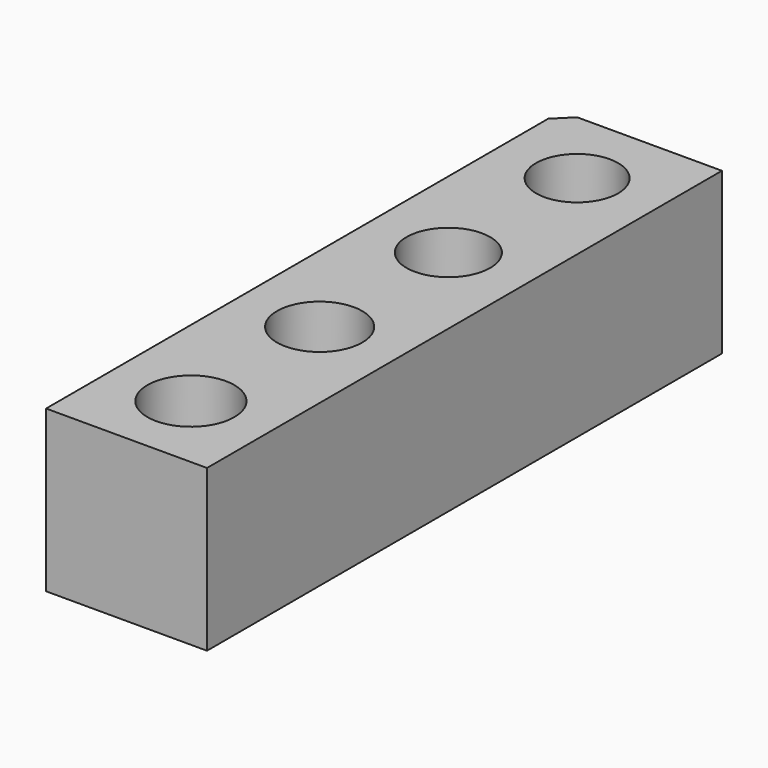
from build123d import *

# Parameters (mm, degrees)
CYLINDER047_R     = 2.6
CYLINDER047_DEPTH = 10
CYLINDER049_R     = 2.7
CYLINDER049_DEPTH = 10
CYLINDER048_R     = 2.65
CYLINDER048_DEPTH = 10
CYLINDER050_R     = 2.55
CYLINDER050_DEPTH = 10
BOX023_W          = 10
BOX023_H          = 40
BOX023_DEPTH      = 10
CHAMFER029_SIZE   = 1


with BuildPart() as cylinder047:
    # Cylinder047 → Cylinder047 (new body)
    with BuildSketch(Plane(origin=(0, 10, 0), x_dir=(1, 0, 0), z_dir=(0, 0, 1))):
        Circle(CYLINDER047_R)
    extrude(amount=CYLINDER047_DEPTH)


with BuildPart() as cylinder049:
    # Cylinder049 → Cylinder049 (new body)
    with BuildSketch(Plane(origin=(0, -10, 0), x_dir=(1, 0, 0), z_dir=(0, 0, 1))):
        Circle(CYLINDER049_R)
    extrude(amount=CYLINDER049_DEPTH)


with BuildPart() as cylinder048:
    # Cylinder048 → Cylinder048 (new body)
    with BuildSketch(Plane.XY):
        Circle(CYLINDER048_R)
    extrude(amount=CYLINDER048_DEPTH)


with BuildPart() as fusion020:
    # Cylinder050 → Cylinder050 (new body)
    with BuildSketch(Plane(origin=(0, 20, 0), x_dir=(1, 0, 0), z_dir=(0, 0, 1))):
        Circle(CYLINDER050_R)
    extrude(amount=CYLINDER050_DEPTH)

    # Fusion020: union Cylinder047, Cylinder049, Cylinder048
    add(cylinder047.part)
    add(cylinder049.part)
    add(cylinder048.part)


with BuildPart() as cut038:
    # Box023 → Box023 (new body)
    with BuildSketch(Plane(origin=(-5, -15, 0), x_dir=(1, 0, 0), z_dir=(0, 0, 1))):
        with Locations((5, 20)):
            Rectangle(BOX023_W, BOX023_H)
    extrude(amount=BOX023_DEPTH)

    # Chamfer029
    chamfer029_edges = [cut038.edges().sort_by_distance(p)[0] for p in [
        (-5, 25, 5),
    ]]
    chamfer(chamfer029_edges, length=CHAMFER029_SIZE)

    # Cut038: cut Fusion020
    add(fusion020.part, mode=Mode.SUBTRACT)


solid = cut038.part
